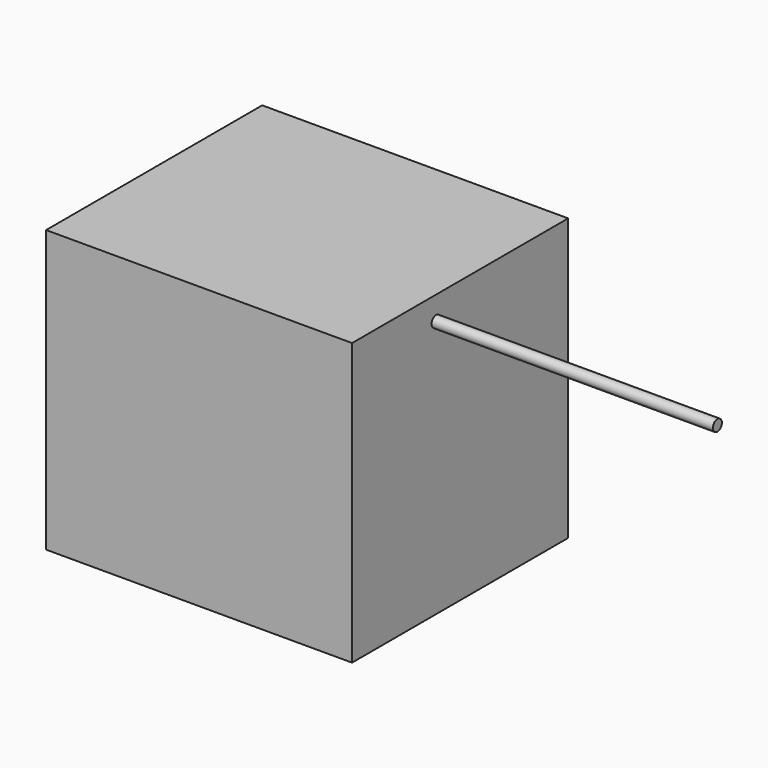
from build123d import *

# Parameters (mm, degrees)
F0_W     = 27.1872
F0_H     = 24.001482
F1_DEPTH = 25
F2_R     = 0.5
F3_DEPTH = 25


with BuildPart() as f1:
    # F0 (on Top) → F1 (new body)
    with BuildSketch(Plane.XY):
        with Locations((0, 2.671184)):
            Rectangle(F0_W, F0_H)
    extrude(amount=F1_DEPTH)

    # F2 (on face) → F3 (join)
    with BuildSketch(Plane.YZ.offset(13.5936)):
        with Locations((0, 22.902265)):
            Circle(F2_R)
    extrude(amount=F3_DEPTH)


solid = f1.part
